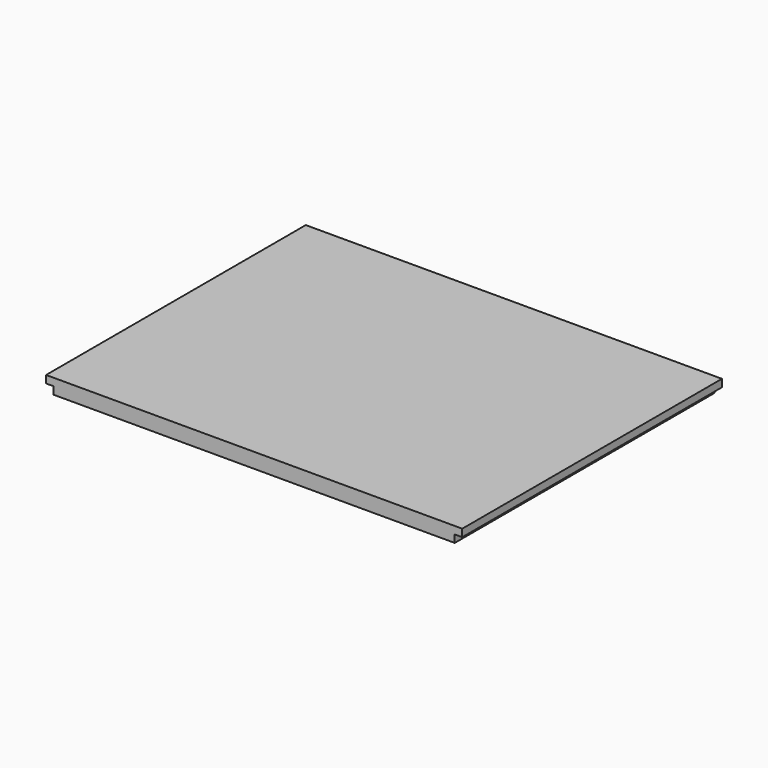
from build123d import *

# Parameters (mm, degrees)
SKETCH_W     = 500
SKETCH_H     = 390
PAD_DEPTH    = 18
SKETCH001_W  = 9
SKETCH001_H  = 390
POCKET_DEPTH = 9


with BuildPart() as part:
    # Sketch → Pad (new body)
    with BuildSketch(Plane.XY):
        with Locations((-250, 195)):
            Rectangle(SKETCH_W, SKETCH_H)
    extrude(amount=PAD_DEPTH)

    # Sketch001 → Pocket (cut)
    with BuildSketch(Plane.XY):
        with Locations((-4.5, 195)):
            Rectangle(SKETCH001_W, SKETCH001_H)
        with Locations((-495.5, 195)):
            Rectangle(SKETCH001_W, SKETCH001_H)
    extrude(amount=POCKET_DEPTH, mode=Mode.SUBTRACT)


solid = part.part
